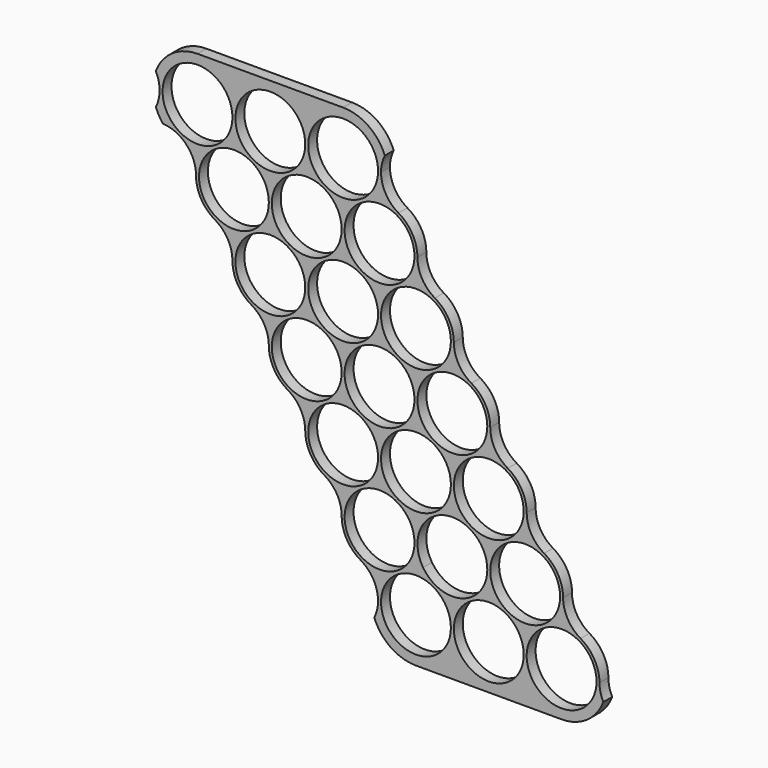
from build123d import *

# Parameters (mm, degrees)
F0_R     = 9.4
F1_DEPTH = 3


with BuildPart() as f1:
    # F0 (on Front) → F1 (new body)
    with BuildSketch(Plane.XZ):
        with BuildLine():
            ThreePointArc((-5.1, -8.833459), (-3.333588, -10.15167), (-1.922689, -11.844968))
            ThreePointArc((-1.922689, -11.844968), (-0.788709, -14.298908), (-0.4, -16.974098))
            ThreePointArc((-0.4, -16.974098), (0.966541, -22.074098), (4.7, -25.807557))
            ThreePointArc((4.7, -25.807557), (8.140639, -29.248196), (9.4, -33.948196))
            ThreePointArc((9.4, -33.948196), (10.766541, -39.048196), (14.5, -42.781655))
            ThreePointArc((14.5, -42.781655), (17.940639, -46.222294), (19.2, -50.922294))
            ThreePointArc((19.2, -50.922294), (20.566541, -56.022294), (24.3, -59.755753))
            ThreePointArc((24.3, -59.755753), (27.740639, -63.196392), (29, -67.896392))
            ThreePointArc((29, -67.896392), (30.366541, -72.996392), (34.1, -76.729851))
            ThreePointArc((34.1, -76.729851), (37.540639, -80.17049), (38.8, -84.87049))
            ThreePointArc((38.8, -84.87049), (40.166541, -89.97049), (43.9, -93.703949))
            ThreePointArc((43.9, -93.703949), (47.340639, -97.144587), (48.6, -101.844587))
            ThreePointArc((48.6, -101.844587), (48.341601, -104.033451), (47.580612, -106.101974))
            ThreePointArc((47.580612, -106.101974), (51.984159, -111.72104), (58.8, -113.844587))
            Line((58.8, -113.844587), (98, -113.844587))
            ThreePointArc((98, -113.844587), (104.815841, -111.72104), (109.219388, -106.101974))
            ThreePointArc((109.219388, -106.101974), (108.458399, -104.033451), (108.2, -101.844587))
            ThreePointArc((108.2, -101.844587), (106.833459, -96.744587), (103.1, -93.011128))
            ThreePointArc((103.1, -93.011128), (99.659361, -89.57049), (98.4, -84.87049))
            ThreePointArc((98.4, -84.87049), (97.033459, -79.77049), (93.3, -76.03703))
            ThreePointArc((93.3, -76.03703), (89.859361, -72.596392), (88.6, -67.896392))
            ThreePointArc((88.6, -67.896392), (87.233459, -62.796392), (83.5, -59.062933))
            ThreePointArc((83.5, -59.062933), (80.059361, -55.622294), (78.8, -50.922294))
            ThreePointArc((78.8, -50.922294), (77.433459, -45.822294), (73.7, -42.088835))
            ThreePointArc((73.7, -42.088835), (70.259361, -38.648196), (69, -33.948196))
            ThreePointArc((69, -33.948196), (67.633459, -28.848196), (63.9, -25.114737))
            ThreePointArc((63.9, -25.114737), (60.459361, -21.674098), (59.2, -16.974098))
            ThreePointArc((59.2, -16.974098), (57.833459, -11.874098), (54.1, -8.140639))
            ThreePointArc((54.1, -8.140639), (50.659361, -4.7), (49.4, 0))
            ThreePointArc((49.4, 0), (49.658399, 2.188863), (50.419388, 4.257386))
            ThreePointArc((50.419388, 4.257386), (46.015841, 9.876453), (39.2, 12))
            Line((39.2, 12), (0, 12))
            ThreePointArc((0, 12), (-6.815841, 9.876453), (-11.219388, 4.257386))
            ThreePointArc((-11.219388, 4.257386), (-10.2, 0), (-11.219388, -4.257386))
            ThreePointArc((-11.219388, -4.257386), (-10.392305, -6), (-9.296699, -7.587582))
            ThreePointArc((-9.296699, -7.587582), (-7.12481, -7.962807), (-5.1, -8.833459))
        make_face()
        with BuildLine():
            ThreePointArc((56.877311, -89.99962), (39.988709, -82.1953), (58.4, -84.87049))
            ThreePointArc((58.4, -84.87049), (58.011291, -87.545679), (56.877311, -89.99962))
        make_face(mode=Mode.SUBTRACT)
        with Locations((39.2, -67.896392)):
            Circle(F0_R, mode=Mode.SUBTRACT)
        with Locations((58.8, -101.844587)):
            Circle(F0_R, mode=Mode.SUBTRACT)
        with Locations((78.4, -101.844587)):
            Circle(F0_R, mode=Mode.SUBTRACT)
        with BuildLine():
            ThreePointArc((78, -84.87049), (71.27519, -93.88178), (60.722689, -89.99962))
            ThreePointArc((60.722689, -89.99962), (65.92481, -75.859199), (78, -84.87049))
        make_face(mode=Mode.SUBTRACT)
        with Locations((98, -101.844587)):
            Circle(F0_R, mode=Mode.SUBTRACT)
        with Locations((88.2, -84.87049)):
            Circle(F0_R, mode=Mode.SUBTRACT)
        with Locations((58.8, -67.896392)):
            Circle(F0_R, mode=Mode.SUBTRACT)
        with Locations((78.4, -67.896392)):
            Circle(F0_R, mode=Mode.SUBTRACT)
        with Locations((29.4, -50.922294)):
            Circle(F0_R, mode=Mode.SUBTRACT)
        with Locations((49, -50.922294)):
            Circle(F0_R, mode=Mode.SUBTRACT)
        with Locations((19.6, -33.948196)):
            Circle(F0_R, mode=Mode.SUBTRACT)
        with Locations((39.2, -33.948196)):
            Circle(F0_R, mode=Mode.SUBTRACT)
        with BuildLine():
            ThreePointArc((1.922689, -11.844968), (12.47519, -7.962807), (19.2, -16.974098))
            ThreePointArc((19.2, -16.974098), (7.12481, -25.985389), (1.922689, -11.844968))
        make_face(mode=Mode.SUBTRACT)
        Circle(F0_R, mode=Mode.SUBTRACT)
        with Locations((29.4, -16.974098)):
            Circle(F0_R, mode=Mode.SUBTRACT)
        with BuildLine():
            ThreePointArc((53.7, -25.114737), (40.859361, -21.674098), (44.3, -8.833459))
            ThreePointArc((44.3, -8.833459), (57.140639, -12.274098), (53.7, -25.114737))
        make_face(mode=Mode.SUBTRACT)
        with Locations((19.6, 0)):
            Circle(F0_R, mode=Mode.SUBTRACT)
        with Locations((39.2, 0)):
            Circle(F0_R, mode=Mode.SUBTRACT)
        with Locations((68.6, -50.922294)):
            Circle(F0_R, mode=Mode.SUBTRACT)
        with Locations((58.8, -33.948196)):
            Circle(F0_R, mode=Mode.SUBTRACT)
    extrude(amount=F1_DEPTH)


solid = f1.part
